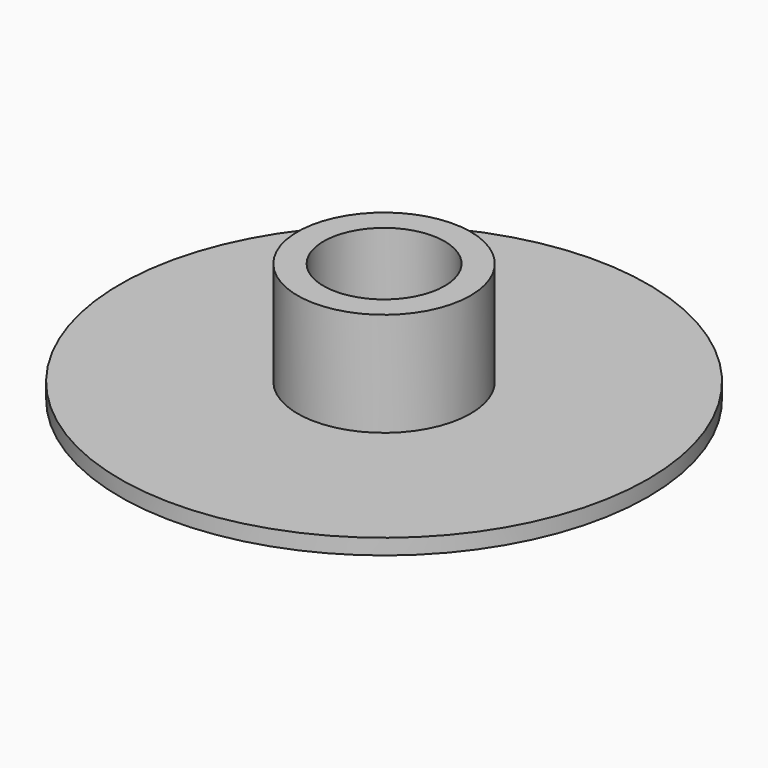
from build123d import *

# Parameters (mm, degrees)
F0_R     = 16.65
F1_DEPTH = 23
F2_R     = 50.8
F2_R_2   = 16.65
F3_DEPTH = 3
F4_R     = 11.65
F5_DEPTH = 40


with BuildPart() as f1:
    # F0 (on Top) → F1 (new body)
    with BuildSketch(Plane.XY):
        Circle(F0_R)
    extrude(amount=F1_DEPTH)

    # F4 (on face) → F5 (cut)
    with BuildSketch(Plane.XY.offset(23)):
        Circle(F4_R)
    extrude(amount=-F5_DEPTH, mode=Mode.SUBTRACT)


with BuildPart() as f3:
    # F2 (on face) → F3 (new body)
    with BuildSketch(Plane(origin=(0, 0, 0), x_dir=(1, 0, 0), z_dir=(0, 0, -1))):
        Circle(F2_R)
        Circle(F2_R_2, mode=Mode.SUBTRACT)
    extrude(amount=-F3_DEPTH)


solid = Compound([f1.part, f3.part])
